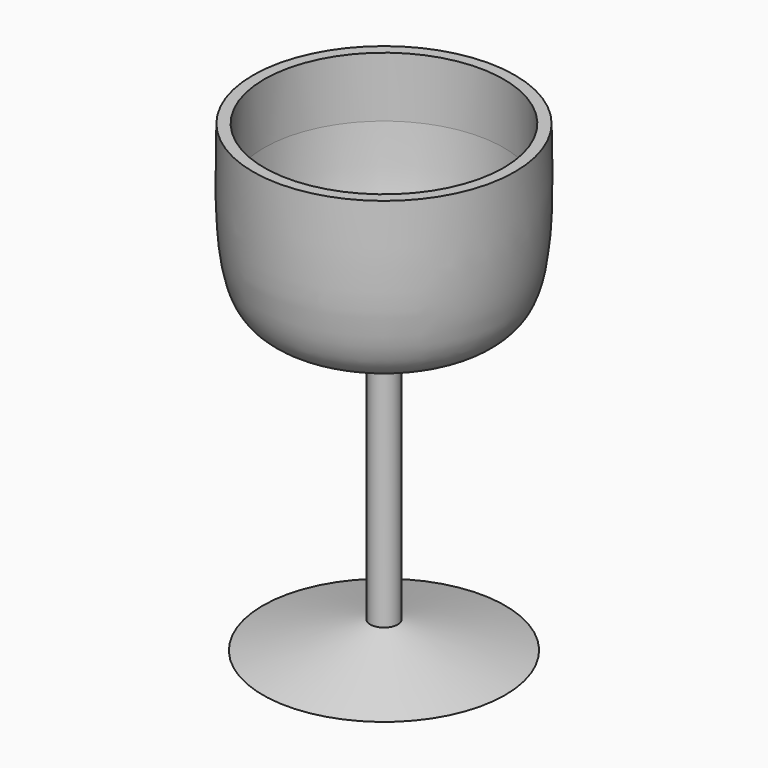
from build123d import *


with BuildPart() as f1:
    # F0 (on Front) → F1 (revolve)
    with BuildSketch(Plane.XZ):
        Polygon((-3.5116514776, -58.3229424221), (0, -57.434938848), (0, 9.8246313068), (-3.9119780995, 9.4243045896), (-3.5116514776, 5.5123274215), align=None)
    revolve(axis=Axis((0, 0, -3.7253e-06), (0, 0, 1)))

    # F0 (on Front) → F2 (revolve)
    with BuildSketch(Plane.XZ):
        with BuildLine():
            add(Edge.make_bspline(
                [(-3.5116514776, 5.5123274215), (-9.5735833902, 6.2454415966), (-20.6222907222, 7.5816433353), (-34.2124984937, 13.8966744398), (-33.7360922993, 37.7941769093), (-33.4296226501, 53.1673170626)],
                knots=[0, 0, 0, 0, 0.3024608737, 0.5512766757, 1, 1, 1, 1], degree=3))
            Line((-3.5116514776, 5.5123274215), (-3.9119780995, 9.4243045896))
            add(Edge.make_bspline(
                [(-30.5845458061, 37.7941769093), (-29.9039523902, 28.5965916456), (-28.8347816345, 14.1477460392), (-20.0904764667, 10.5724788206), (-9.9595508368, 9.853495669), (-3.9119780995, 9.4243045896)],
                knots=[0, 0, 0, 0, 0.4138186482, 0.6500838628, 1, 1, 1, 1], degree=3))
            Line((-30.5845458061, 37.7941769093), (-30.5845458061, 53.1673170626))
            Line((-30.5845458061, 53.1673170626), (-33.4296226501, 53.1673170626))
        make_face()
    revolve(axis=Axis((0, 0, -3.7253e-06), (0, 0, 1)))

    # F0 (on Front) → F3 (revolve)
    with BuildSketch(Plane.XZ):
        Polygon((-30.9401806444, -65.2588903904), (0, -62.4138191342), (0, -57.434938848), (-3.5116514776, -58.3229424221), align=None)
    revolve(axis=Axis((0, 0, -3.7253e-06), (0, 0, 1)))


solid = f1.part
